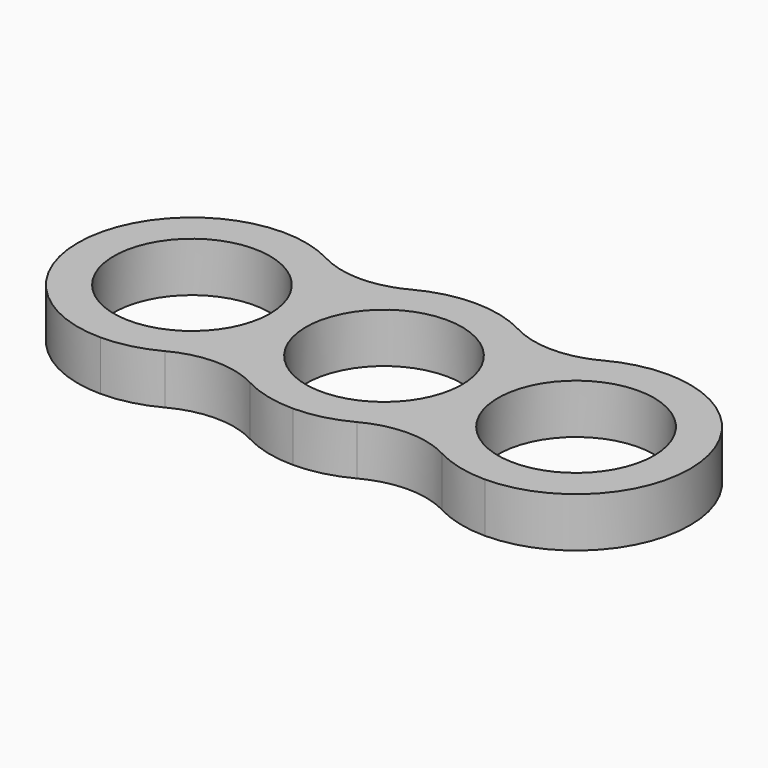
from build123d import *

# Parameters (mm, degrees)
F0_R     = 11
F1_DEPTH = 7
F2_R     = 12.7


with BuildPart() as f1:
    # F0 (on Top) → F1 (new body)
    with BuildSketch(Plane.XY):
        with BuildLine():
            ThreePointArc((-27.08, 16.08), (-43.16, 0), (-27.08, -16.08))
            ThreePointArc((-27.08, -16.08), (-19.363404, -14.107464), (-13.54, -8.6738))
            ThreePointArc((-13.54, -8.6738), (-7.716596, -14.107464), (0, -16.08))
            ThreePointArc((0, -16.08), (7.716596, -14.107464), (13.54, -8.6738))
            ThreePointArc((13.54, -8.6738), (19.363404, -14.107464), (27.08, -16.08))
            ThreePointArc((27.08, -16.08), (43.16, 0), (27.08, 16.08))
            ThreePointArc((27.08, 16.08), (19.363404, 14.107464), (13.54, 8.6738))
            ThreePointArc((13.54, 8.6738), (7.716596, 14.107464), (0, 16.08))
            ThreePointArc((0, 16.08), (-7.716596, 14.107464), (-13.54, 8.6738))
            ThreePointArc((-13.54, 8.6738), (-19.363404, 14.107464), (-27.08, 16.08))
        make_face()
        with Locations((-27.08, 0)):
            Circle(F0_R, mode=Mode.SUBTRACT)
        with BuildLine():
            ThreePointArc((0, -11), (-11, 0), (0, 11))
            ThreePointArc((0, 11), (11, 0), (0, -11))
        make_face(mode=Mode.SUBTRACT)
        with Locations((27.08, 0)):
            Circle(F0_R, mode=Mode.SUBTRACT)
    extrude(amount=F1_DEPTH)

    # F2
    f2_edges = [f1.edges().sort_by_distance(p)[0] for p in [
        (-13.54, -8.6738, 3.5),
        (13.54, -8.6738, 3.5),
        (-13.54, 8.6738, 3.5),
        (13.54, 8.6738, 3.5),
    ]]
    fillet(f2_edges, radius=F2_R)


solid = f1.part
